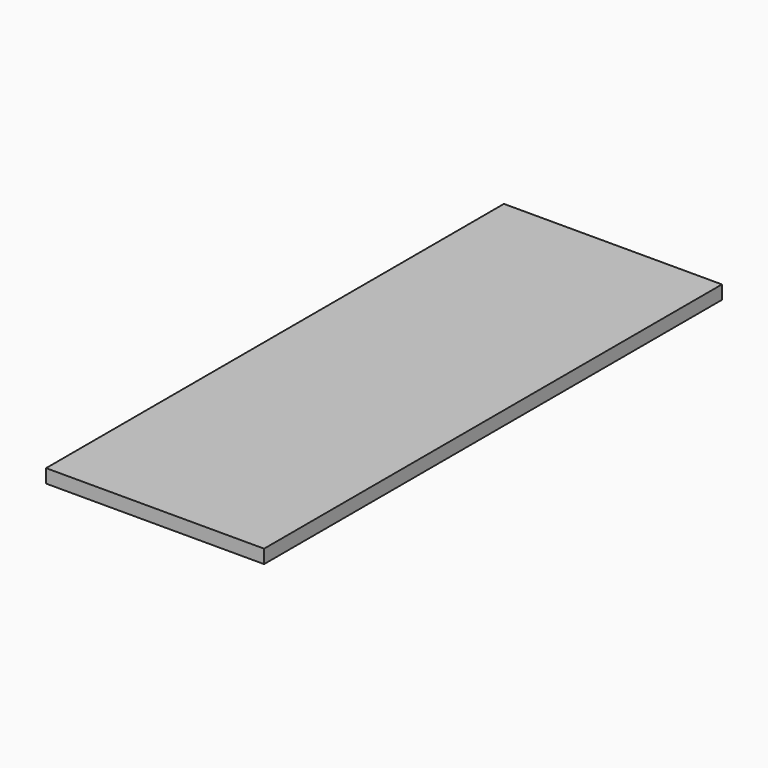
from build123d import *

# Parameters (mm, degrees)
CYLINDER017_R     = 1.4
CYLINDER017_DEPTH = 2
CYLINDER018_R     = 1.4
CYLINDER018_DEPTH = 2
BOX008_W          = 16
BOX008_H          = 42
BOX008_DEPTH      = 1


with BuildPart() as zylinder017:
    # Cylinder017 → Cylinder017 (new body)
    with BuildSketch(Plane(origin=(16.5, 10, -29.5), x_dir=(1, 0, 0), z_dir=(0, 0, 1))):
        Circle(CYLINDER017_R)
    extrude(amount=CYLINDER017_DEPTH)


with BuildPart() as zylinder018:
    # Cylinder018 → Cylinder018 (new body)
    with BuildSketch(Plane(origin=(16.5, -10, -29.5), x_dir=(1, 0, 0), z_dir=(0, 0, 1))):
        Circle(CYLINDER018_R)
    extrude(amount=CYLINDER018_DEPTH)


with BuildPart() as fusion007:
    # Box008 → Box008 (new body)
    with BuildSketch(Plane(origin=(8.5, -21, -27.5), x_dir=(1, 0, 0), z_dir=(0, 0, 1))):
        with Locations((8, 21)):
            Rectangle(BOX008_W, BOX008_H)
    extrude(amount=BOX008_DEPTH)

    # Fusion007: union Zylinder017, Zylinder018
    add(zylinder017.part)
    add(zylinder018.part)


with BuildPart() as fusion007_1:
    # Fusion007 placement: moved
    add(fusion007.part.moved(Location((-34.5, 0, 0.5))))


solid = fusion007_1.part
